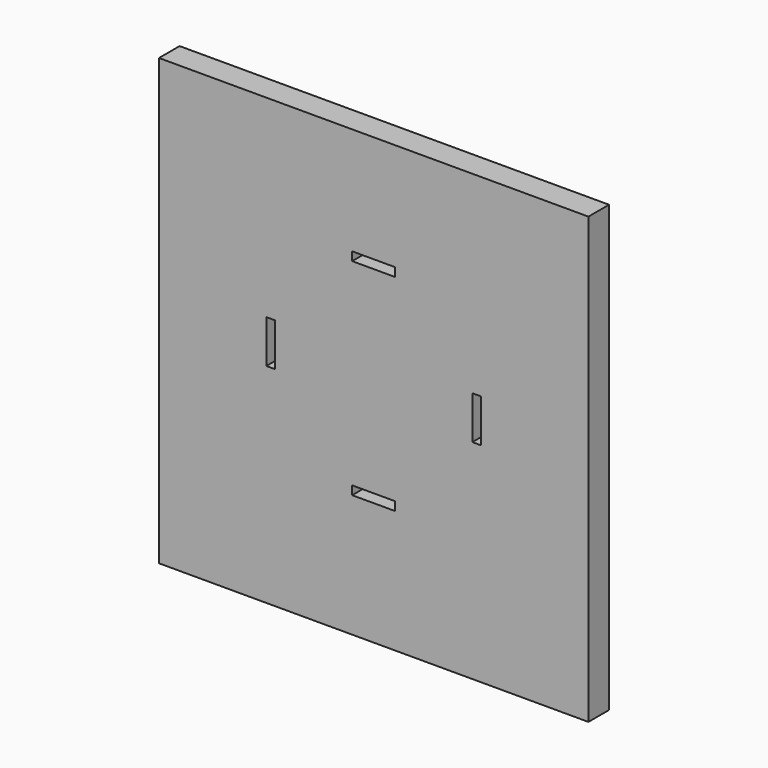
from build123d import *

# Parameters (mm, degrees)
F0_W     = 100
F0_H     = 103.589743
F0_W_2   = 10.02
F0_H_2   = 2.02
F0_W_3   = 2.02
F0_H_3   = 10.02
F1_DEPTH = 6


with BuildPart() as f1:
    # F0 (on Front) → F1 (new body)
    with BuildSketch(Plane.XZ):
        with Locations((1.625, -3.859973)):
            Rectangle(F0_W, F0_H)
        with Locations((1.625, -26.055101)):
            Rectangle(F0_W_2, F0_H_2, mode=Mode.SUBTRACT)
        with Locations((-22.365, -2.065101)):
            Rectangle(F0_W_3, F0_H_3, mode=Mode.SUBTRACT)
        with Locations((25.615, -2.065101)):
            Rectangle(F0_W_3, F0_H_3, mode=Mode.SUBTRACT)
        with Locations((1.625, 21.924899)):
            Rectangle(F0_W_2, F0_H_2, mode=Mode.SUBTRACT)
    extrude(amount=F1_DEPTH)


solid = f1.part
